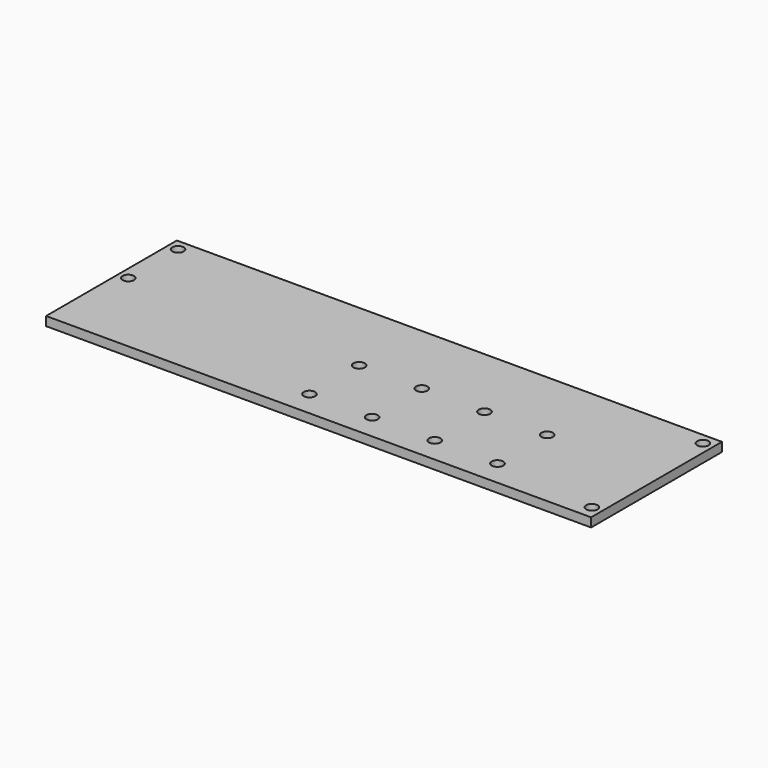
from build123d import *

# Parameters (mm, degrees)
F0_W     = 100
F0_H     = 30
F0_R     = 1.05
F1_DEPTH = 1.65


with BuildPart() as f1:
    # F0 (on Top) → F1 (new body)
    with BuildSketch(Plane.XY):
        Rectangle(F0_W, F0_H)
        with Locations((-5.4, -10.35)):
            Circle(F0_R, mode=Mode.SUBTRACT)
        with Locations((6.1, -10.35)):
            Circle(F0_R, mode=Mode.SUBTRACT)
        with Locations((17.6, -10.35)):
            Circle(F0_R, mode=Mode.SUBTRACT)
        with Locations((48.15, -12.5)):
            Circle(F0_R, mode=Mode.SUBTRACT)
        with Locations((29.1, -10.35)):
            Circle(F0_R, mode=Mode.SUBTRACT)
        with Locations((-48.15, 1.55)):
            Circle(F0_R, mode=Mode.SUBTRACT)
        with Locations((-5.4, 1.05)):
            Circle(F0_R, mode=Mode.SUBTRACT)
        with Locations((-48.15, 12.95)):
            Circle(F0_R, mode=Mode.SUBTRACT)
        with Locations((6.1, 1.05)):
            Circle(F0_R, mode=Mode.SUBTRACT)
        with Locations((17.6, 1.05)):
            Circle(F0_R, mode=Mode.SUBTRACT)
        with Locations((29.1, 1.05)):
            Circle(F0_R, mode=Mode.SUBTRACT)
        with Locations((48.15, 12.95)):
            Circle(F0_R, mode=Mode.SUBTRACT)
    extrude(amount=F1_DEPTH)


solid = f1.part
